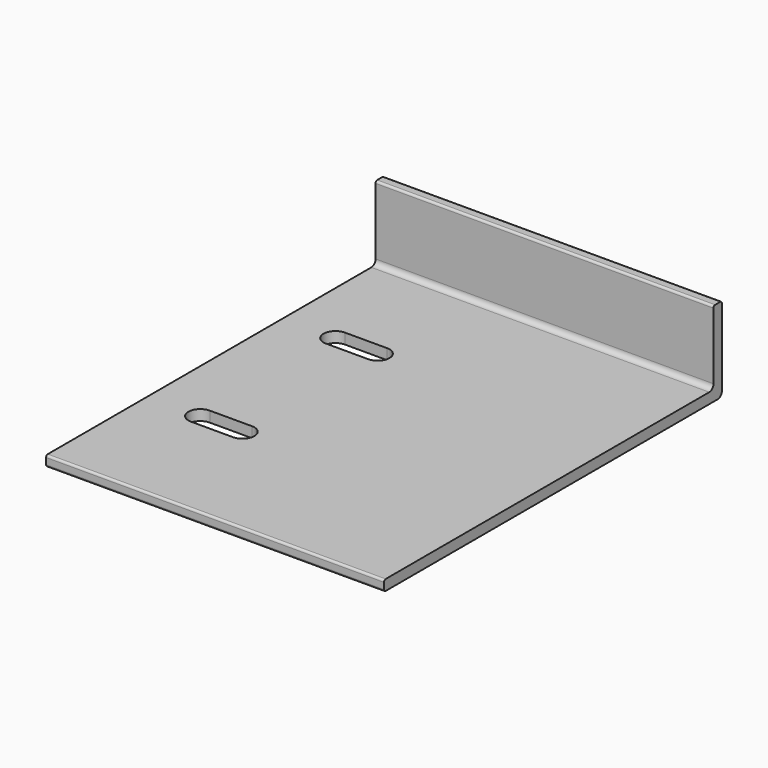
from build123d import *

# Parameters (mm, degrees)
F0_W     = 203.2
F0_H     = 254
F1_DEPTH = 6.35
F2_W     = 203.2
F2_H     = 6.35
F3_DEPTH = 44.45
F4_R     = 3.175
F6_DEPTH = 25.4
F7_DEPTH = 25.4
F8_R     = 1.27


with BuildPart() as f1:
    # F0 (on Top) → F1 (new body)
    with BuildSketch(Plane.XY):
        Rectangle(F0_W, F0_H)
    extrude(amount=F1_DEPTH)

    # F2 (on face) → F3 (join)
    with BuildSketch(Plane.XY.offset(6.35)):
        with Locations((0, 123.825)):
            Rectangle(F2_W, F2_H)
    extrude(amount=F3_DEPTH)

    # F4
    f4_edges = [f1.edges().sort_by_distance(p)[0] for p in [
        (0, 120.65, 6.35),
        (0, 127, 0),
    ]]
    fillet(f4_edges, radius=F4_R)

    # F5 (on face) → F6 (cut)
    with BuildSketch(Plane.XY.offset(6.35)):
        with BuildLine():
            ThreePointArc((-69.85, -43.65625), (-64.798606, -45.748606), (-62.70625, -50.8))
            ThreePointArc((-62.70625, -50.8), (-64.798606, -55.851394), (-69.85, -57.94375))
            Line((-69.85, -57.94375), (-44.45, -57.94375))
            ThreePointArc((-44.45, -57.94375), (-51.59375, -50.8), (-44.45, -43.65625))
            Line((-44.45, -43.65625), (-69.85, -43.65625))
        make_face()
        with BuildLine():
            ThreePointArc((-37.30625, -50.8), (-39.398606, -45.748606), (-44.45, -43.65625))
            ThreePointArc((-44.45, -43.65625), (-51.59375, -50.8), (-44.45, -57.94375))
            ThreePointArc((-44.45, -57.94375), (-39.398606, -55.851394), (-37.30625, -50.8))
        make_face()
        with BuildLine():
            ThreePointArc((-69.85, -57.94375), (-64.798606, -55.851394), (-62.70625, -50.8))
            ThreePointArc((-62.70625, -50.8), (-64.798606, -45.748606), (-69.85, -43.65625))
            ThreePointArc((-69.85, -43.65625), (-76.99375, -50.8), (-69.85, -57.94375))
        make_face()
    extrude(amount=-F6_DEPTH, mode=Mode.SUBTRACT)

    # F5 (on face) → F7 (cut)
    with BuildSketch(Plane.XY.offset(6.35)):
        with BuildLine():
            ThreePointArc((-69.85, -57.94375), (-64.798606, -55.851394), (-62.70625, -50.8))
            ThreePointArc((-62.70625, -50.8), (-64.798606, -45.748606), (-69.85, -43.65625))
            ThreePointArc((-69.85, -43.65625), (-76.99375, -50.8), (-69.85, -57.94375))
        make_face()
        with BuildLine():
            ThreePointArc((-69.85, -43.65625), (-64.798606, -45.748606), (-62.70625, -50.8))
            ThreePointArc((-62.70625, -50.8), (-64.798606, -55.851394), (-69.85, -57.94375))
            Line((-69.85, -57.94375), (-44.45, -57.94375))
            ThreePointArc((-44.45, -57.94375), (-51.59375, -50.8), (-44.45, -43.65625))
            Line((-44.45, -43.65625), (-69.85, -43.65625))
        make_face()
        with BuildLine():
            ThreePointArc((-37.30625, -50.8), (-39.398606, -45.748606), (-44.45, -43.65625))
            ThreePointArc((-44.45, -43.65625), (-51.59375, -50.8), (-44.45, -57.94375))
            ThreePointArc((-44.45, -57.94375), (-39.398606, -55.851394), (-37.30625, -50.8))
        make_face()
        with BuildLine():
            ThreePointArc((-69.85, 43.65625), (-64.798606, 45.748606), (-62.70625, 50.8))
            ThreePointArc((-62.70625, 50.8), (-64.798606, 55.851394), (-69.85, 57.94375))
            ThreePointArc((-69.85, 57.94375), (-76.99375, 50.8), (-69.85, 43.65625))
        make_face()
        with BuildLine():
            ThreePointArc((-69.85, 57.94375), (-64.798606, 55.851394), (-62.70625, 50.8))
            ThreePointArc((-62.70625, 50.8), (-64.798606, 45.748606), (-69.85, 43.65625))
            Line((-69.85, 43.65625), (-44.45, 43.65625))
            ThreePointArc((-44.45, 43.65625), (-51.59375, 50.8), (-44.45, 57.94375))
            Line((-44.45, 57.94375), (-69.85, 57.94375))
        make_face()
        with BuildLine():
            ThreePointArc((-37.30625, 50.8), (-39.398606, 55.851394), (-44.45, 57.94375))
            ThreePointArc((-44.45, 57.94375), (-51.59375, 50.8), (-44.45, 43.65625))
            ThreePointArc((-44.45, 43.65625), (-39.398606, 45.748606), (-37.30625, 50.8))
        make_face()
    extrude(amount=-F7_DEPTH, mode=Mode.SUBTRACT)

    # F8
    f8_edges = [f1.edges().sort_by_distance(p)[0] for p in [
        (0, -127, 6.35),
        (0, -127, 0),
        (0, 120.65, 50.8),
        (0, 127, 50.8),
    ]]
    fillet(f8_edges, radius=F8_R)


solid = f1.part
